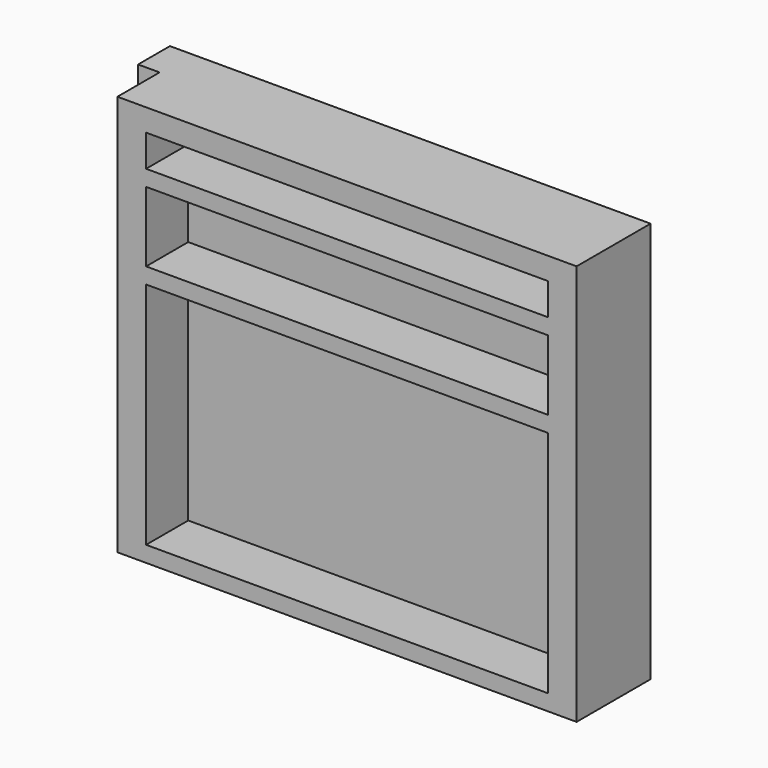
from build123d import *

# Parameters (mm, degrees)
F0_W     = 3020
F0_H     = 2520
F1_DEPTH = 250
F2_W     = 2525
F2_H     = 140
F2_H_2   = 100
F3_DEPTH = 331


with BuildPart() as f1:
    # F0 (on Front) → F1 (new body)
    with BuildSketch(Plane.XZ):
        with Locations((-33.555575, 1260)):
            Rectangle(F0_W, F0_H)
    extrude(amount=F1_DEPTH)

    # F2 (on face) → F3 (join)
    with BuildSketch(Plane.XZ.offset(250)):
        Polygon((-1228.555575, 2520), (-1408.555575, 2520), (-1408.555575, 0), (-1228.555575, 0), (-1228.555575, 100), (-1228.555575, 1540), (-1228.555575, 1640), (-1228.555575, 2080), (-1228.555575, 2180), (-1228.555575, 2380), align=None)
        with Locations((33.944425, 2450)):
            Rectangle(F2_W, F2_H)
        with Locations((33.944425, 2130)):
            Rectangle(F2_W, F2_H_2)
        with Locations((33.944425, 1590)):
            Rectangle(F2_W, F2_H_2)
        with Locations((33.944425, 50)):
            Rectangle(F2_W, F2_H_2)
        Polygon((1476.444425, 2520), (1296.444425, 2520), (1296.444425, 2380), (1296.444425, 2180), (1296.444425, 2080), (1296.444425, 1640), (1296.444425, 1540), (1296.444425, 100), (1296.444425, 0), (1476.444425, 0), align=None)
    extrude(amount=F3_DEPTH)


solid = f1.part
